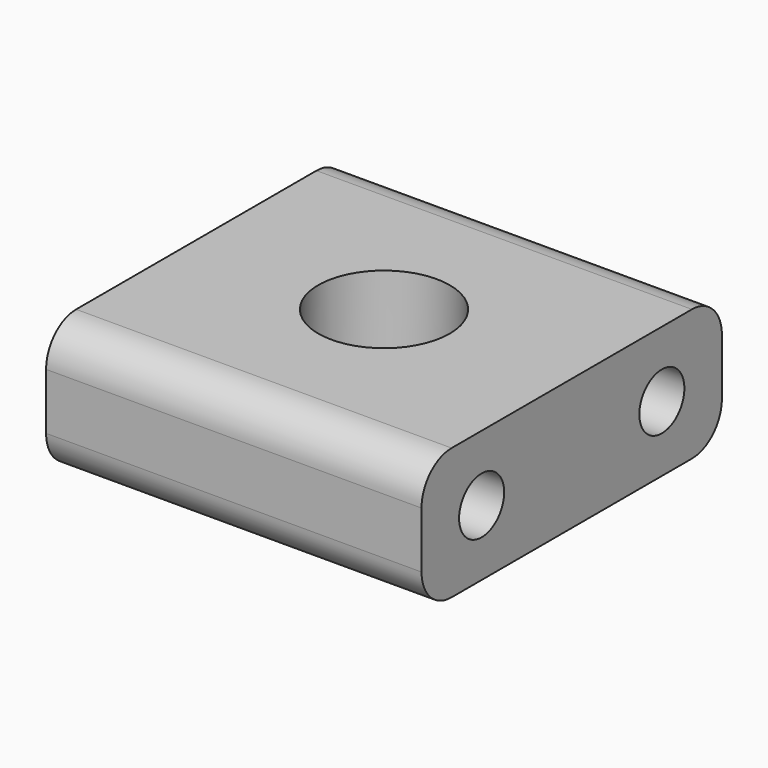
from build123d import *

# Parameters (mm, degrees)
F0_W     = 20
F0_H     = 20
F0_R     = 3.5
F1_DEPTH = 7
F2_R     = 2
F3_R     = 1.5
F4_DEPTH = 25


with BuildPart() as f1:
    # F0 (on Top) → F1 (new body)
    with BuildSketch(Plane.XY):
        Rectangle(F0_W, F0_H)
        Circle(F0_R, mode=Mode.SUBTRACT)
    extrude(amount=F1_DEPTH)

    # F2
    f2_edges = [f1.edges().sort_by_distance(p)[0] for p in [
        (0, -10, 7),
        (0, -10, 0),
        (0, 10, 7),
        (0, 10, 0),
    ]]
    fillet(f2_edges, radius=F2_R)

    # F3 (on face) → F4 (cut)
    with BuildSketch(Plane(origin=(-10, 0, 0), x_dir=(0, -1, 0), z_dir=(-1, 0, 0))):
        with Locations((-6, 3.5)):
            Circle(F3_R)
        with Locations((6, 3.5)):
            Circle(F3_R)
    extrude(amount=-F4_DEPTH, mode=Mode.SUBTRACT)


solid = f1.part
